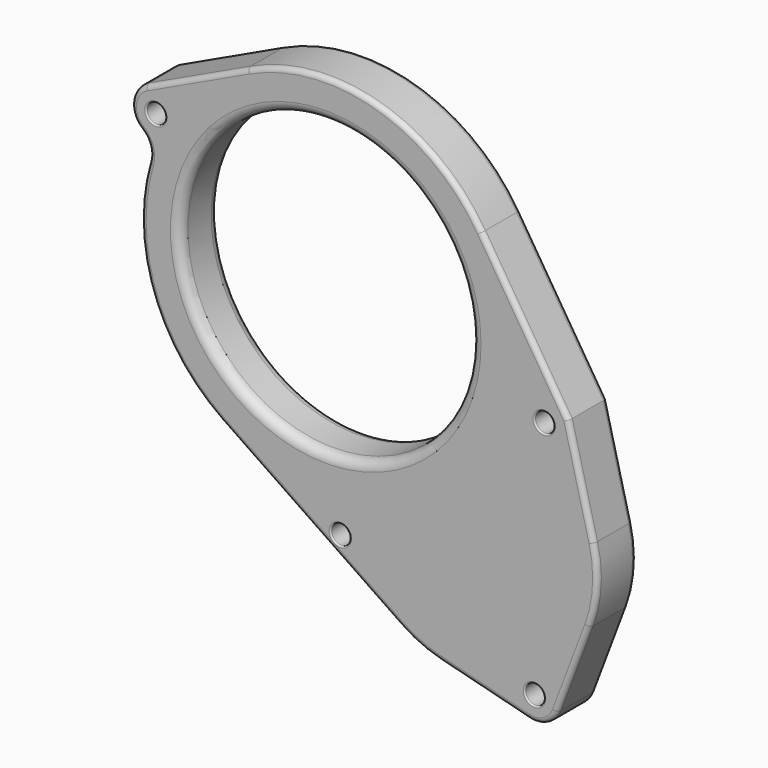
from build123d import *

# Parameters (mm, degrees)
F0_R     = 2
F0_R_2   = 30
F1_DEPTH = 10
F2_R     = 1
F3_R     = 2
F4_R     = 0.3


with BuildPart() as f1:
    # F0 (on Front) → F1 (new body)
    with BuildSketch(Plane.XZ):
        with BuildLine():
            Line((50, -8), (32.127062, 20.294135))
            ThreePointArc((32.127062, 20.294135), (10.63896, 36.480303), (-16.181371, 34.382601))
            Line((-16.181371, 34.382601), (-37.129128, 24.524026))
            ThreePointArc((-37.129128, 24.524026), (-39.965908, 20.582892), (-38.118871, 16.091977))
            ThreePointArc((-38.118871, 16.091977), (-36.46847, 13.685302), (-36.442655, 10.767214))
            ThreePointArc((-36.442655, 10.767214), (-35.794841, -12.75654), (-21.419391, -31.38805))
            Line((-21.419391, -31.38805), (15.344627, -56.476034))
            ThreePointArc((15.344627, -56.476034), (19.2895, -58.691458), (23.558701, -60.189475))
            Line((23.558701, -60.189475), (41.761289, -64.84413))
            ThreePointArc((41.761289, -64.84413), (45.306764, -64.436084), (47.676998, -61.767961))
            Line((47.676998, -61.767961), (54.320392, -44.193396))
            ThreePointArc((54.320392, -44.193396), (55.957667, -36.483086), (55.209234, -28.63647))
            Line((55.209234, -28.63647), (50, -8))
        make_face()
        with Locations((3, -44)):
            Circle(F0_R, mode=Mode.SUBTRACT)
        with Locations((43, -60)):
            Circle(F0_R, mode=Mode.SUBTRACT)
        Circle(F0_R_2, mode=Mode.SUBTRACT)
        with Locations((-35, 20)):
            Circle(F0_R, mode=Mode.SUBTRACT)
        with Locations((45, -10)):
            Circle(F0_R, mode=Mode.SUBTRACT)
    extrude(amount=F1_DEPTH)

    # F2
    f2_edges = [f1.edges().sort_by_distance(p)[0] for p in [
        (10.63896, -10, 36.480303),
        (10.63896, 0, 36.480303),
    ]]
    fillet(f2_edges, radius=F2_R)

    # F3
    f3_edges = [f1.edges().sort_by_distance(p)[0] for p in [
        (-30, -10, 0),
        (-30, 0, 0),
    ]]
    fillet(f3_edges, radius=F3_R)

    # F4
    f4_edges = [f1.edges().sort_by_distance(p)[0] for p in [
        (-37, 0, 20),
        (1, 0, -44),
        (43, 0, -10),
        (41, 0, -60),
        (-37, -10, 20),
        (1, -10, -44),
        (43, -10, -10),
        (41, -10, -60),
    ]]
    fillet(f4_edges, radius=F4_R)


solid = f1.part
